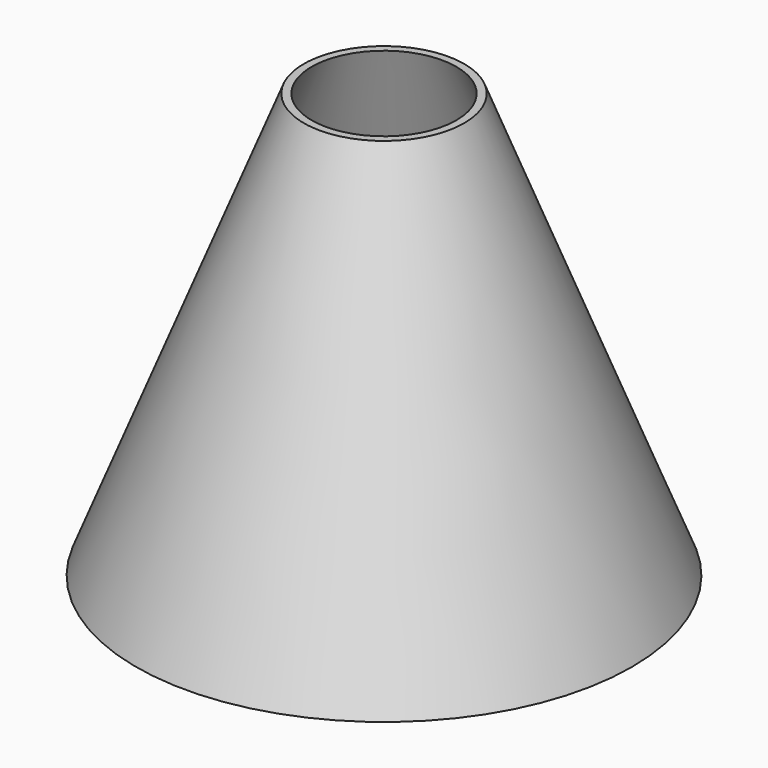
from build123d import *

# Parameters (mm, degrees)
CYLINDER044_R     = 8
CYLINDER044_DEPTH = 3


with BuildPart() as cylinder044:
    # Cylinder044 → Cylinder044 (new body)
    with BuildSketch(Plane.XY.offset(123)):
        Circle(CYLINDER044_R)
    extrude(amount=CYLINDER044_DEPTH)


with BuildPart() as cone001:
    # Cone002 → Cone002 (revolve)
    with BuildSketch(Plane(origin=(0, 0, 75), x_dir=(1, 0, 0), z_dir=(0, -1, 0))):
        Polygon((0, 0), (21.5, 0), (5.3, 41), (0, 41), align=None)
    revolve(axis=Axis((0, 0, 75), (0, 0, 1)))


with BuildPart() as conical_section:
    # Cone001 → Cone001 (revolve)
    with BuildSketch(Plane(origin=(0, 0, 75), x_dir=(1, 0, 0), z_dir=(0, -1, 0))):
        Polygon((0, 0), (22.2, 0), (6, 41), (0, 41), align=None)
    revolve(axis=Axis((0, 0, 75), (0, 0, 1)))

    # Cut003: cut Cone001
    add(cone001.part, mode=Mode.SUBTRACT)


with BuildPart() as conical_section_1:
    # Cut003 placement: moved
    add(conical_section.part.moved(Location((0, 0, 10))))

    # Cut038: cut Cylinder044
    add(cylinder044.part, mode=Mode.SUBTRACT)


solid = conical_section_1.part
